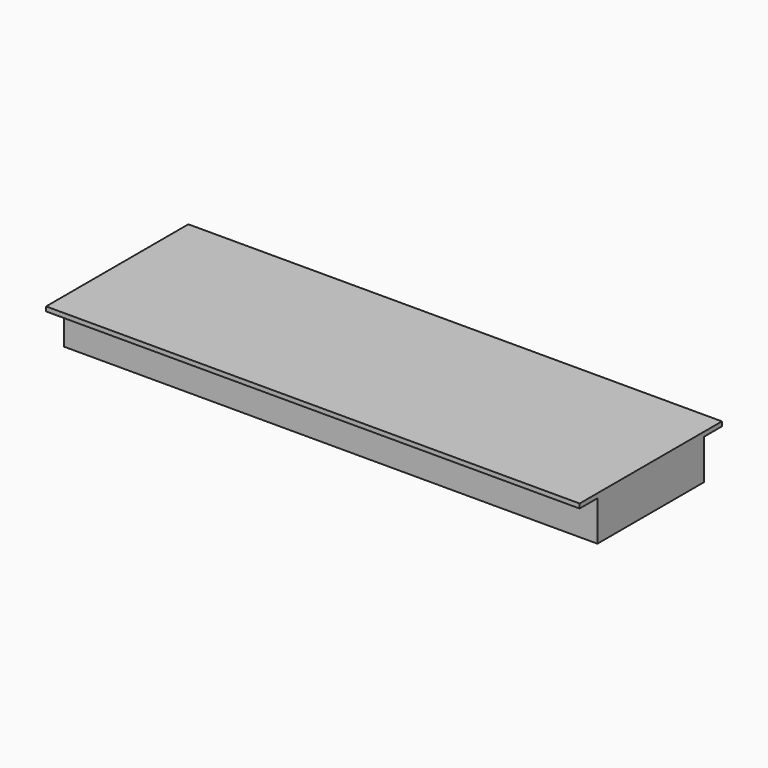
from build123d import *

# Parameters (mm, degrees)
F0_W     = 600
F0_H     = 200
F1_DEPTH = 5
F2_W     = 600
F2_H     = 150
F3_DEPTH = 45


with BuildPart() as f1:
    # F0 (on Top) → F1 (new body)
    with BuildSketch(Plane.XY):
        Rectangle(F0_W, F0_H)
    extrude(amount=F1_DEPTH)

    # F2 (on face) → F3 (join)
    with BuildSketch(Plane(origin=(0, 0, 0), x_dir=(1, 0, 0), z_dir=(0, 0, -1))):
        Rectangle(F2_W, F2_H)
    extrude(amount=F3_DEPTH)


solid = f1.part
